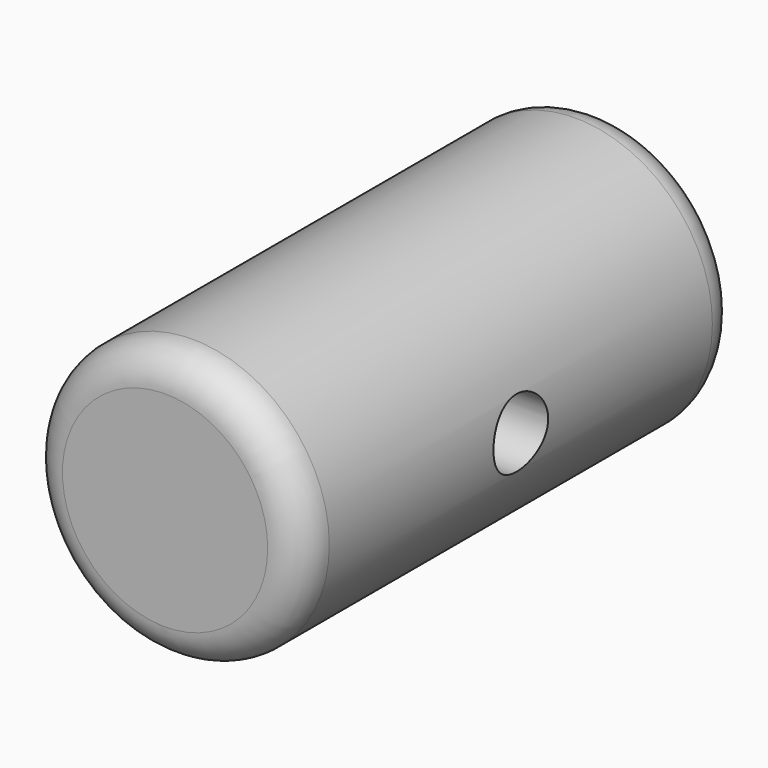
from build123d import *

# Parameters (mm, degrees)
F0_R     = 20
F1_DEPTH = 80
F4_D     = 10
F4_DEPTH = 30
F4_START = 0.6350834
F4_TIP   = 3.0043030951
F5_R     = 5
F6_R     = 5


with BuildPart() as f1:
    # F0 (on Front) → F1 (new body)
    with BuildSketch(Plane.XZ):
        Circle(F0_R)
    extrude(amount=F1_DEPTH)

    # F4
    # its depths count from where the whole tool has entered the part; down to there all is cleared
    with Locations(Plane.YZ.offset(20).offset(-F4_START)):
        with Locations((-40, 0)):
            Hole(F4_D / 2, depth=F4_DEPTH)
            with Locations((0, 0, -(F4_DEPTH + F4_TIP / 2))):  # 118° drill point
                Cone(0, F4_D / 2, F4_TIP, mode=Mode.SUBTRACT)

    # F5
    f5_edges = [f1.edges().sort_by_distance(p)[0] for p in [
        (-20, 0, 0),
    ]]
    fillet(f5_edges, radius=F5_R)

    # F6
    f6_edges = [f1.edges().sort_by_distance(p)[0] for p in [
        (-20, -80, 0),
    ]]
    fillet(f6_edges, radius=F6_R)


solid = f1.part
